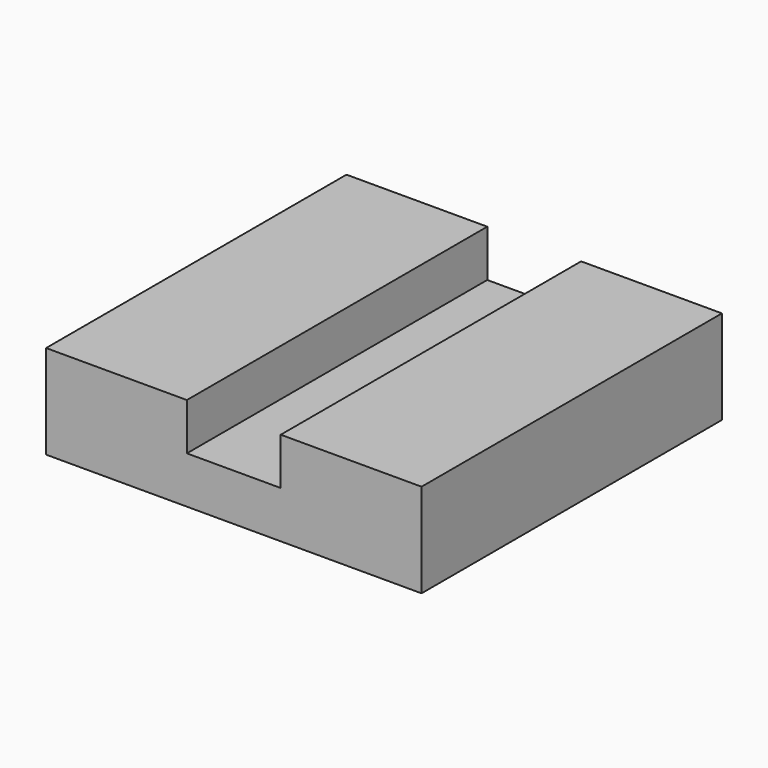
from build123d import *

# Parameters (mm, degrees)
SKETCH_W     = 40
SKETCH_H     = 40
PAD_DEPTH    = 10
SKETCH001_W  = 10
SKETCH001_H  = 40
POCKET_DEPTH = 5


with BuildPart() as part:
    # Sketch → Pad (new body)
    with BuildSketch(Plane.XY):
        with Locations((20, 20)):
            Rectangle(SKETCH_W, SKETCH_H)
    extrude(amount=PAD_DEPTH)

    # Sketch001 (on Face6 of Pad) → Pocket (cut)
    with BuildSketch(Plane.XY.offset(10)):
        with Locations((20, 20)):
            Rectangle(SKETCH001_W, SKETCH001_H)
    extrude(amount=-POCKET_DEPTH, mode=Mode.SUBTRACT)


solid = part.part
